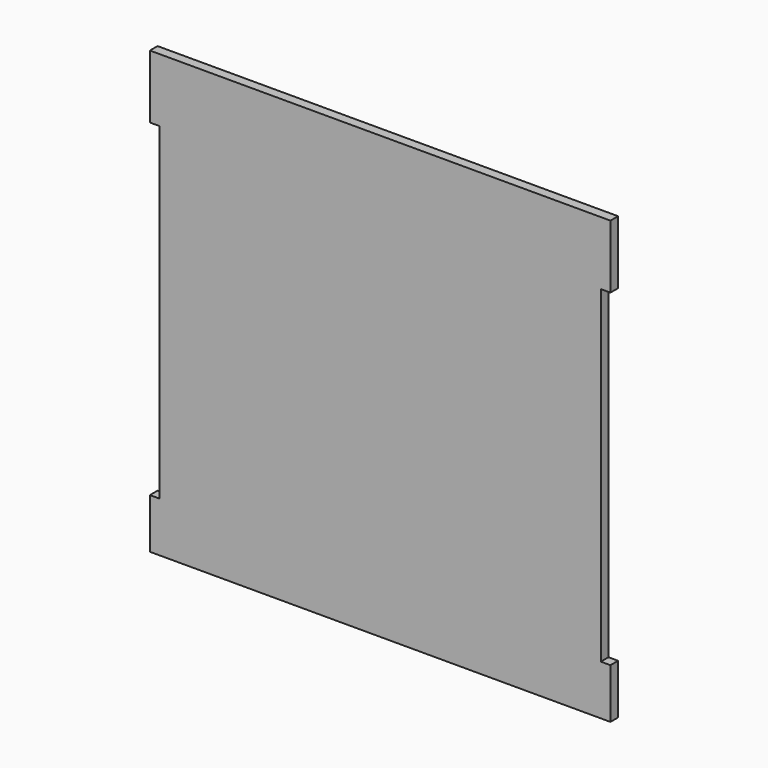
from build123d import *

# Parameters (mm, degrees)
F0_W     = 12.7
F0_H     = 83.82
F0_H_2   = 66.04
F1_DEPTH = 12.7


with BuildPart() as f1:
    # F0 (on Front) → F1 (new body)
    with BuildSketch(Plane.XZ):
        with Locations((-589.915, 541.655)):
            Rectangle(F0_W, F0_H)
        Polygon((-583.565, 0), (0, 0), (0, 66.04), (0, 499.745), (0, 583.565), (-583.565, 583.565), (-583.565, 499.745), (-583.565, 66.04), align=None)
        with Locations((-589.915, 33.02)):
            Rectangle(F0_W, F0_H_2)
        with Locations((6.35, 33.02)):
            Rectangle(F0_W, F0_H_2)
        with Locations((6.35, 541.655)):
            Rectangle(F0_W, F0_H)
    extrude(amount=F1_DEPTH)


solid = f1.part
